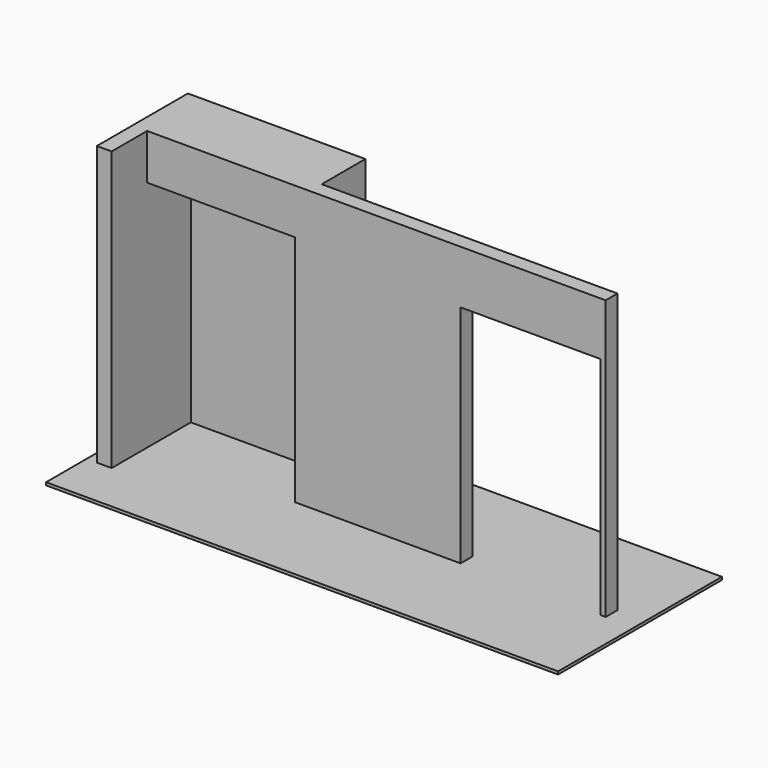
from build123d import *

# Parameters (mm, degrees)
F0_W     = 130
F0_H     = 350
F0_W_2   = 1310
F0_H_2   = 130
F1_DEPTH = 2450
F2_W     = 1300
F2_H     = 480
F3_DEPTH = 400
F4_W     = 1230
F4_H     = 1981
F5_DEPTH = 610.001
F6_W     = 4500
F6_H     = 1800
F7_DEPTH = 25


with BuildPart() as f1:
    # F0 (on Top) → F1 (new body)
    with BuildSketch(Plane.XY):
        Polygon((-2010, -455), (-2010, 415), (-2010, 545), (-2140, 545), (-2140, -455), align=None)
        Polygon((-2010, 415), (-710, 415), (-580, 415), (-580, 545), (-2010, 545), align=None)
        with Locations((-645, 240)):
            Rectangle(F0_W, F0_H)
        Polygon((-710, -65), (710, -65), (710, 65), (-580, 65), (-710, 65), align=None)
        with Locations((1365, 0)):
            Rectangle(F0_W_2, F0_H_2)
    extrude(amount=F1_DEPTH)

    # F2 (on face) → F3 (join)
    with BuildSketch(Plane.XY.offset(2450)):
        with Locations((-1360, 175)):
            Rectangle(F2_W, F2_H)
    extrude(amount=-F3_DEPTH)

    # F4 (on face) → F5 (cut, through all)
    with BuildSketch(Plane.XZ.offset(65)):
        with Locations((1360, 990.5)):
            Rectangle(F4_W, F4_H)
    extrude(amount=-F5_DEPTH, mode=Mode.SUBTRACT)


with BuildPart() as f7:
    # F6 (on Top) → F7 (new body)
    with BuildSketch(Plane.XY):
        with Locations((19.737083, 0)):
            Rectangle(F6_W, F6_H)
    extrude(amount=-F7_DEPTH)


solid = Compound([f1.part, f7.part])
